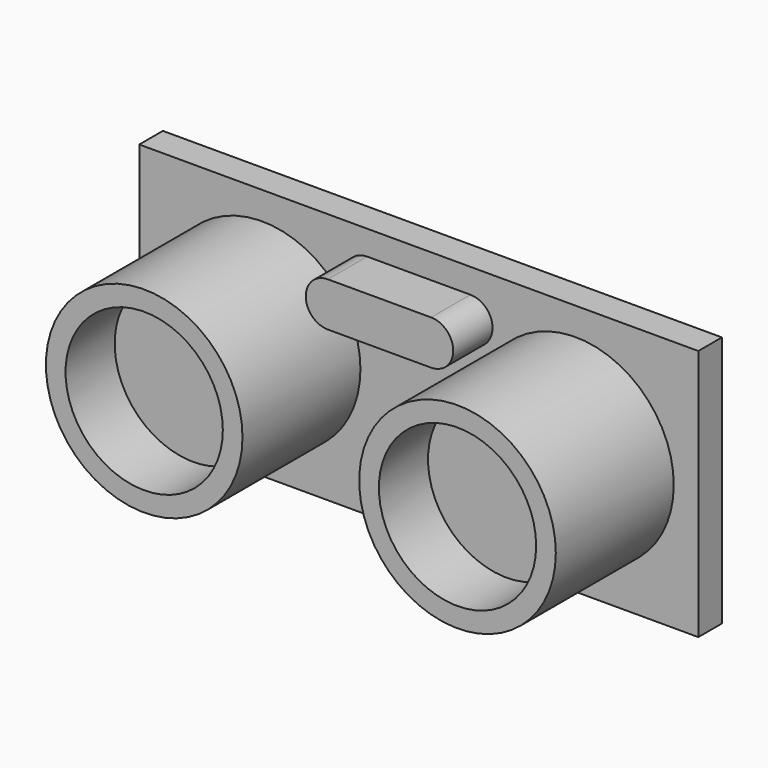
from build123d import *

# Parameters (mm, degrees)
SKETCH_W     = 45.5
SKETCH_H     = 20.5
PAD_DEPTH    = 2.4
SKETCH001_R  = 8
PAD001_DEPTH = 12
SKETCH002_R  = 6.4
POCKET_DEPTH = 5
PAD002_DEPTH = 4
SKETCH004_W  = 10.5
SKETCH004_H  = 2.8
PAD003_DEPTH = 4
SKETCH005_W  = 1
SKETCH005_H  = 1
PAD004_DEPTH = 2
SKETCH006_W  = 1
SKETCH006_H  = 1
PAD005_DEPTH = 7.5
FILLET_R     = 0.5
FILLET001_R  = 0.5
CHAMFER_SIZE = 0.35


with BuildPart() as part:
    # Sketch → Pad (new body)
    with BuildSketch(Plane.XZ):
        Rectangle(SKETCH_W, SKETCH_H)
    extrude(amount=PAD_DEPTH)

    # Sketch001 → Pad001 (new body)
    with BuildSketch(Plane.XZ.offset(2.4)):
        with Locations((-12.75, 0)):
            Circle(SKETCH001_R)
        with Locations((12.75, 0)):
            Circle(SKETCH001_R)
    extrude(amount=PAD001_DEPTH)

    # Sketch002 → Pocket (cut)
    with BuildSketch(Plane.XZ.offset(14.4)):
        with Locations((-12.75, 0)):
            Circle(SKETCH002_R)
        with Locations((12.75, 0)):
            Circle(SKETCH002_R)
    extrude(amount=-POCKET_DEPTH, mode=Mode.SUBTRACT)

    # Sketch003 → Pad002 (new body)
    with BuildSketch(Plane.XZ.offset(2.4)):
        with BuildLine():
            ThreePointArc((-4.2, 8.25), (-6, 6.45), (-4.2, 4.65))
            Line((-4.2, 4.65), (4.2, 4.65))
            ThreePointArc((4.2, 4.65), (6, 6.45), (4.2, 8.25))
            Line((-4.2, 8.25), (4.2, 8.25))
        make_face()
    extrude(amount=PAD002_DEPTH)

    # Sketch004 → Pad003 (new body)
    with BuildSketch(Plane(origin=(0, 0, 0), x_dir=(1, 0, 0), z_dir=(0, 1, 0))):
        with Locations((0, 6.85)):
            Rectangle(SKETCH004_W, SKETCH004_H)
    extrude(amount=PAD003_DEPTH)

    # Sketch005 → Pad004 (new body)
    with BuildSketch(Plane(origin=(0, 4, 0), x_dir=(1, 0, 0), z_dir=(0, 1, 0))):
        with Locations((-3.75, 6.85)):
            Rectangle(SKETCH005_W, SKETCH005_H)
        with Locations((-1.25, 6.85)):
            Rectangle(SKETCH005_W, SKETCH005_H)
        with Locations((1.25, 6.85)):
            Rectangle(SKETCH005_W, SKETCH005_H)
        with Locations((3.75, 6.85)):
            Rectangle(SKETCH005_W, SKETCH005_H)
    extrude(amount=PAD004_DEPTH)

    # Sketch006 → Pad005 (new body)
    with BuildSketch(Plane(origin=(0, 0, -7.35), x_dir=(1, 0, 0), z_dir=(0, 0, -1))):
        with Locations((-3.75, -5.5)):
            Rectangle(SKETCH006_W, SKETCH006_H)
        with Locations((-1.25, -5.5)):
            Rectangle(SKETCH006_W, SKETCH006_H)
        with Locations((1.25, -5.5)):
            Rectangle(SKETCH006_W, SKETCH006_H)
        with Locations((3.75, -5.5)):
            Rectangle(SKETCH006_W, SKETCH006_H)
    extrude(amount=PAD005_DEPTH)

    # Fillet
    fillet_edges = [part.edges().sort_by_distance(p)[0] for p in [
        (-3.75, 6, -6.35),
        (-1.25, 6, -6.35),
        (1.25, 6, -6.35),
        (3.75, 6, -6.35),
    ]]
    fillet(fillet_edges, radius=FILLET_R)

    # Fillet001
    fillet001_edges = [part.edges().sort_by_distance(p)[0] for p in [
        (3.75, 5, -7.35),
        (1.25, 5, -7.35),
        (-1.25, 5, -7.35),
        (-3.75, 5, -7.35),
    ]]
    fillet(fillet001_edges, radius=FILLET001_R)

    # Chamfer
    chamfer_edges = [part.edges().sort_by_distance(p)[0] for p in [
        (-3.75, 6, -14.85),
        (-4.25, 5.5, -14.85),
        (-3.75, 5, -14.85),
        (-3.25, 5.5, -14.85),
        (-1.25, 6, -14.85),
        (-1.75, 5.5, -14.85),
        (-1.25, 5, -14.85),
        (-0.75, 5.5, -14.85),
        (1.25, 6, -14.85),
        (0.75, 5.5, -14.85),
        (1.25, 5, -14.85),
        (1.75, 5.5, -14.85),
        (3.75, 6, -14.85),
        (3.25, 5.5, -14.85),
        (3.75, 5, -14.85),
        (4.25, 5.5, -14.85),
    ]]
    chamfer(chamfer_edges, length=CHAMFER_SIZE)


solid = part.part
